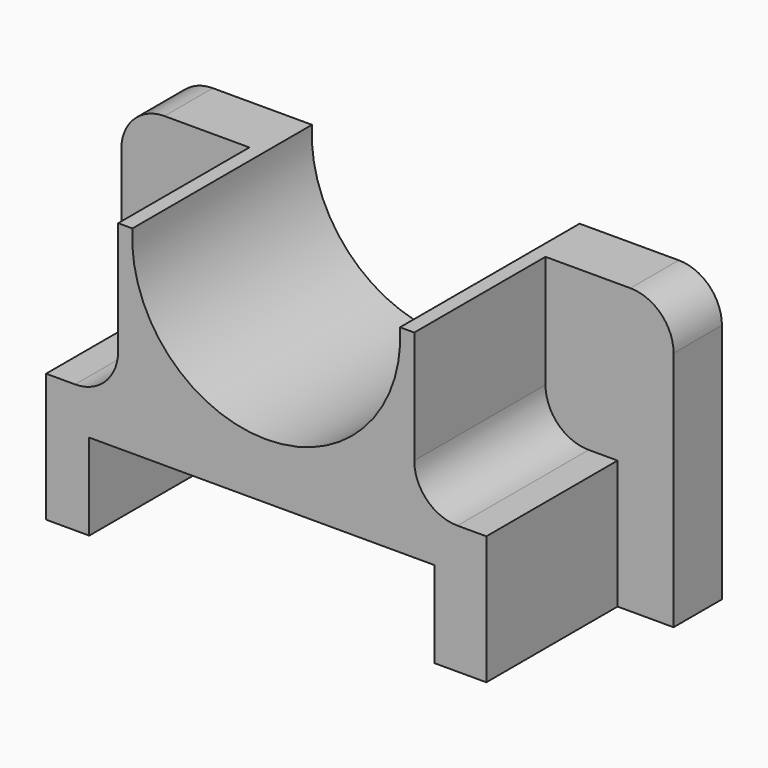
from build123d import *

# Parameters (mm, degrees)
F0_W      = 63.9754086733
F0_H      = 32.954
F1_DEPTH  = 7
F2_W      = 51
F2_H      = 32.954
F3_DEPTH  = 19
F4_W      = 40
F4_H      = 10
F5_DEPTH  = 19
F7_DEPTH  = 47.2
F8_R      = 5
F9_W      = 8.3512892127
F9_H      = 18.0645763493
F10_DEPTH = 19
F11_R     = 5


with BuildPart() as f1:
    # F0 (on Front) → F1 (new body)
    with BuildSketch(Plane.XZ):
        Rectangle(F0_W, F0_H)
    extrude(amount=F1_DEPTH)

    # F2 (on face) → F3 (join)
    with BuildSketch(Plane.XZ.offset(7)):
        Rectangle(F2_W, F2_H)
    extrude(amount=F3_DEPTH)

    # F4 (on face) → F5 (cut)
    with BuildSketch(Plane.XZ.offset(26)):
        with Locations((-0.5, -11.477)):
            Rectangle(F4_W, F4_H)
    extrude(amount=-F5_DEPTH, mode=Mode.SUBTRACT)

    # F6 (on face) → F7 (cut)
    with BuildSketch(Plane.XZ.offset(26)):
        with BuildLine():
            Line((15.5, 16.477), (-15.5, 16.477))
            ThreePointArc((-15.5, 16.477), (0, 0), (15.5, 16.477))
        make_face()
    extrude(amount=-F7_DEPTH, mode=Mode.SUBTRACT)

    # F8
    f8_edges = [f1.edges().sort_by_distance(p)[0] for p in [
        (31.987704, -3.5, 16.477),
        (-31.987704, -3.5, 16.477),
    ]]
    fillet(f8_edges, radius=F8_R)

    # F9 (on face) → F10 (cut)
    with BuildSketch(Plane.XZ.offset(26)):
        with Locations((-21.3243553936, 7.4447118254)):
            Rectangle(F9_W, F9_H)
        with Locations((21.3243553936, 7.4447118254)):
            Rectangle(F9_W, F9_H)
    extrude(amount=-F10_DEPTH, mode=Mode.SUBTRACT)

    # F11
    f11_edges = [f1.edges().sort_by_distance(p)[0] for p in [
        (-17.148711, -16.5, -1.587576),
        (17.148711, -16.5, -1.587576),
    ]]
    fillet(f11_edges, radius=F11_R)


solid = f1.part
